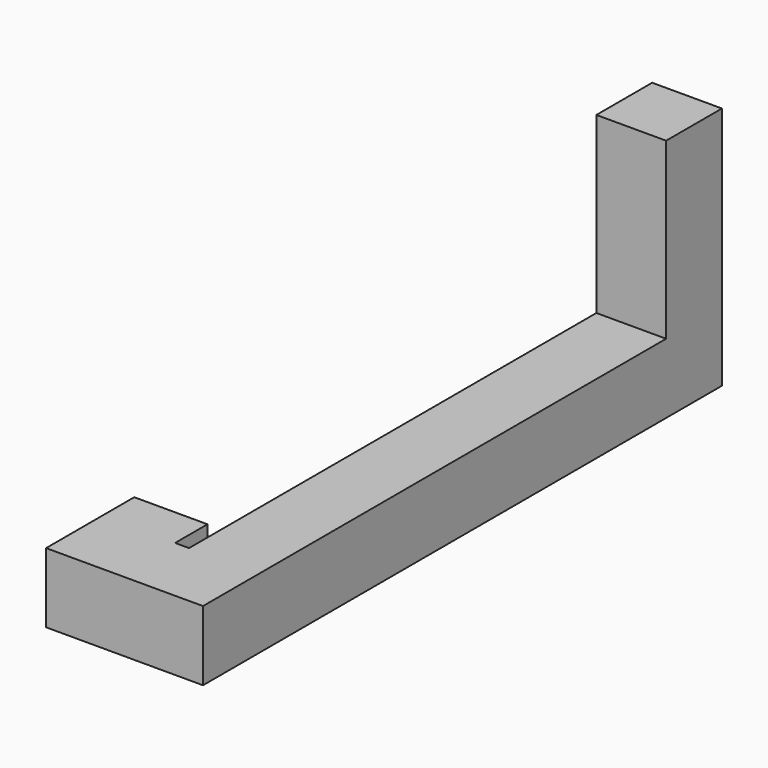
from build123d import *

# Parameters (mm, degrees)
F1_DEPTH = 5
F2_W     = 10
F2_H     = 10
F3_DEPTH = 25


with BuildPart() as f1:
    # F0 (on Top) → F1 (new body, symmetric)
    with BuildSketch(Plane.XY):
        Polygon((22.5, 0), (22.5, 93), (12.5, 93), (12.5, 10), (10.5, 10), (10.5, 15.8), (0, 15.8), (0, 0), align=None)
    extrude(amount=F1_DEPTH, both=True)

    # F2 (on face) → F3 (join)
    with BuildSketch(Plane.XY.offset(5)):
        with Locations((17.5, 88)):
            Rectangle(F2_W, F2_H)
    extrude(amount=F3_DEPTH)


solid = f1.part
